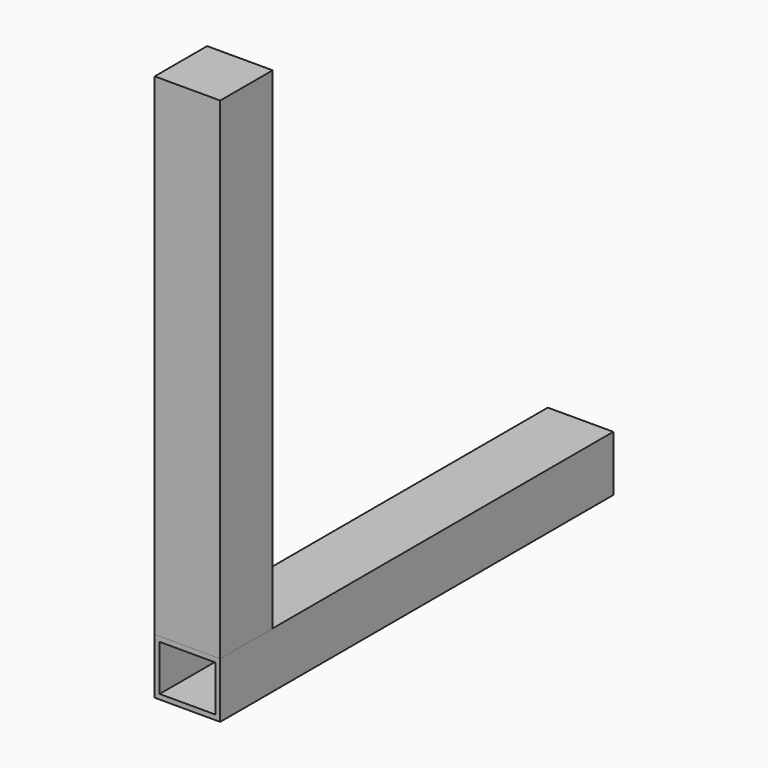
from build123d import *

# Parameters (mm, degrees)
F0_W     = 40
F0_H     = 34
F0_W_2   = 34
F0_H_2   = 28
F1_DEPTH = 300
F2_W     = 40
F2_H     = 40
F3_DEPTH = 300


with BuildPart() as f1:
    # F0 (on Front) → F1 (new body)
    with BuildSketch(Plane.XZ):
        Rectangle(F0_W, F0_H)
        Rectangle(F0_W_2, F0_H_2, mode=Mode.SUBTRACT)
    extrude(amount=F1_DEPTH)


with BuildPart() as f3:
    # F2 (on face) → F3 (new body)
    with BuildSketch(Plane.XY.offset(17)):
        with Locations((0, -280)):
            Rectangle(F2_W, F2_H)
    extrude(amount=F3_DEPTH)


solid = Compound([f1.part, f3.part])
